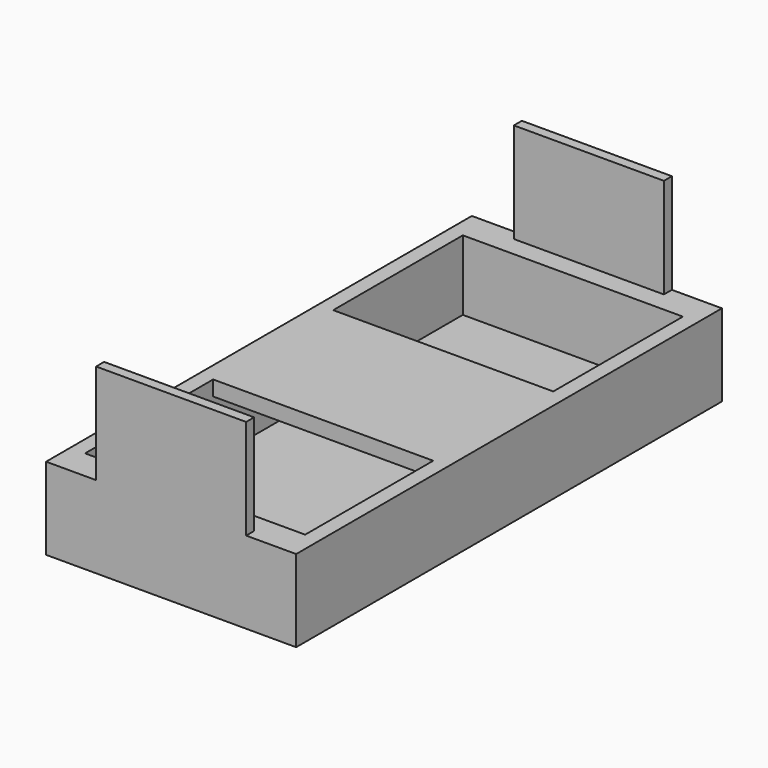
from build123d import *

# Parameters (mm, degrees)
F0_W     = 25
F0_H     = 53.2
F1_DEPTH = 8.2
F2_W     = 15
F2_H     = 1
F3_DEPTH = 10
F4_W     = 22
F4_H     = 47.2
F5_DEPTH = 7
F6_W     = 22
F6_H     = 15
F7_DEPTH = 1.5


with BuildPart() as f1:
    # F0 (on Top) → F1 (new body)
    with BuildSketch(Plane.XY):
        with Locations((12.5, 26.6)):
            Rectangle(F0_W, F0_H)
    extrude(amount=-F1_DEPTH)

    # F2 (on Top) → F3 (join)
    with BuildSketch(Plane.XY):
        with Locations((12.5, 52.7)):
            Rectangle(F2_W, F2_H)
        with Locations((12.5, 0.5)):
            Rectangle(F2_W, F2_H)
    extrude(amount=F3_DEPTH)

    # F4 (on Top) → F5 (cut)
    with BuildSketch(Plane.XY):
        with Locations((12.5, 26.6)):
            Rectangle(F4_W, F4_H)
    extrude(amount=-F5_DEPTH, mode=Mode.SUBTRACT)

    # F6 (on Top) → F7 (join)
    with BuildSketch(Plane.XY):
        with Locations((12.5, 26.5)):
            Rectangle(F6_W, F6_H)
    extrude(amount=-F7_DEPTH)


solid = f1.part
